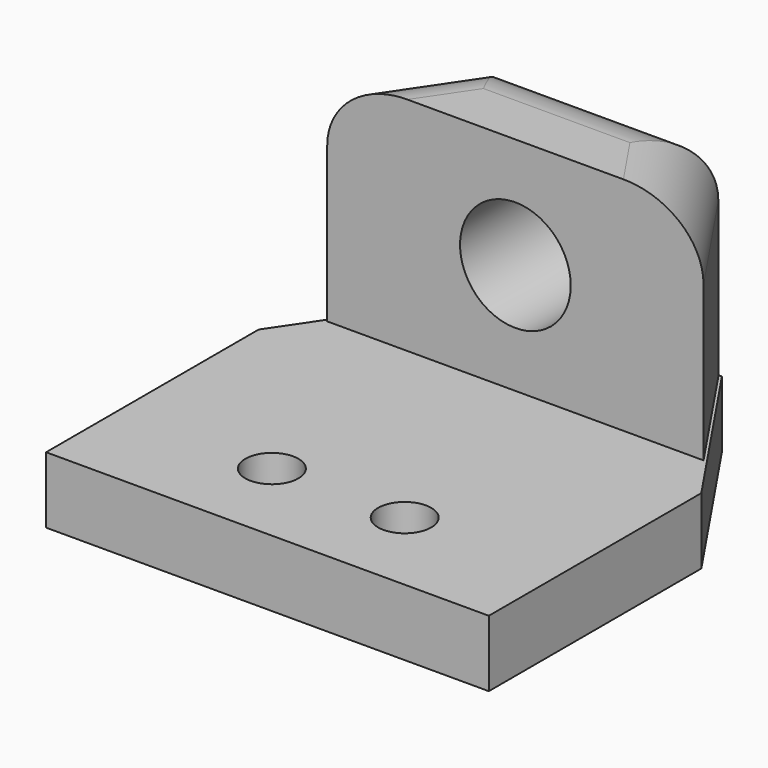
from build123d import *

# Parameters (mm, degrees)
SKETCH_R     = 1.2
PAD_DEPTH    = 3
PAD001_DEPTH = 10
FILLET_R     = 3
SKETCH002_R  = 2.5
POCKET_DEPTH = 6


with BuildPart() as part:
    # Sketch → Pad (new body)
    with BuildSketch(Plane.XY):
        Polygon((0, 12), (0, 0), (-20, 0), (-20, 12), (-15, 19.412805), (-5, 19.412805), align=None)
        with Locations((-13, 4)):
            Circle(SKETCH_R, mode=Mode.SUBTRACT)
        with Locations((-7, 4)):
            Circle(SKETCH_R, mode=Mode.SUBTRACT)
    extrude(amount=PAD_DEPTH)

    # Sketch001 (on Face10 of Pad) → Pad001 (join)
    with BuildSketch(Plane.XY.offset(3)):
        Polygon((-14.90374, 19.331674), (-5.09626, 19.331674), (-1.5, 14), (-18.5, 14), align=None)
    extrude(amount=PAD001_DEPTH)

    # Fillet
    fillet_edges = [part.edges().sort_by_distance(p)[0] for p in [
        (-3.29813, 16.665837, 13),
        (-10, 19.331674, 13),
        (-16.70187, 16.665837, 13),
    ]]
    fillet(fillet_edges, radius=FILLET_R)

    # Sketch002 (on Face12 of Pad001) → Pocket (cut)
    with BuildSketch(Plane.XZ.offset(-14)):
        with Locations((-10, 8)):
            Circle(SKETCH002_R)
    extrude(amount=-POCKET_DEPTH, mode=Mode.SUBTRACT)


solid = part.part
